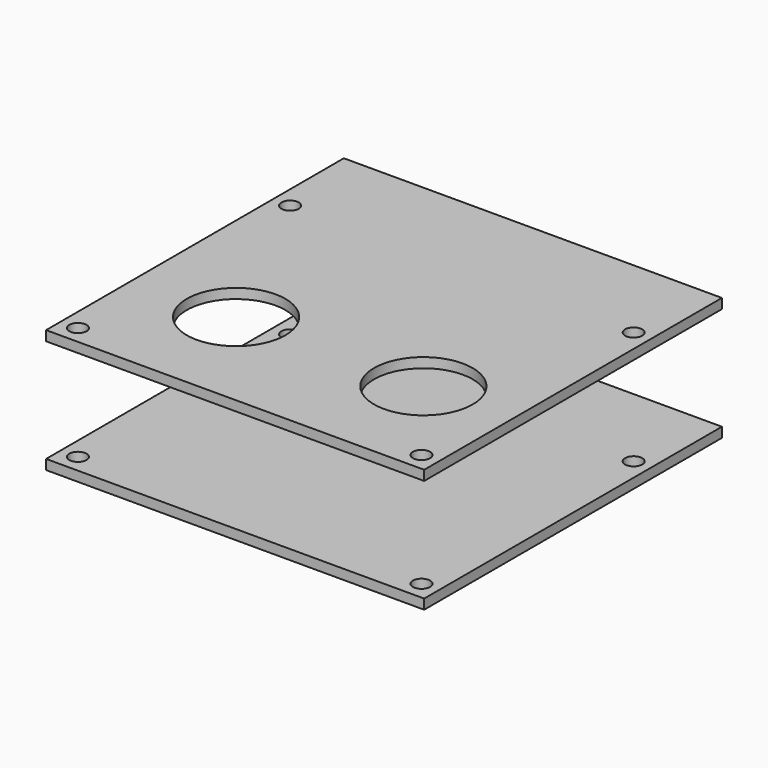
from build123d import *

# Parameters (mm, degrees)
SKETCH004_W      = 76.7
SKETCH004_H      = 75.5
SKETCH004_R      = 1.75
EXTRUDE004_DEPTH = 2
SKETCH005_W      = 76.7
SKETCH005_H      = 75.5
SKETCH005_R      = 10
SKETCH005_R_2    = 1.75
EXTRUDE005_DEPTH = 2


with BuildPart() as bottom_plate:
    # Sketch004 → Extrude004 (new body)
    with BuildSketch(Plane.XY):
        with Locations((38.35, 37.75)):
            Rectangle(SKETCH004_W, SKETCH004_H)
        with Locations((3.5, 3.7)):
            Circle(SKETCH004_R, mode=Mode.SUBTRACT)
        with Locations((73.2, 3.7)):
            Circle(SKETCH004_R, mode=Mode.SUBTRACT)
        with Locations((3.5, 57.5)):
            Circle(SKETCH004_R, mode=Mode.SUBTRACT)
        with Locations((73.2, 57.5)):
            Circle(SKETCH004_R, mode=Mode.SUBTRACT)
    extrude(amount=EXTRUDE004_DEPTH)


with BuildPart() as bottom_plate_1:
    # Extrude004 placement: moved
    add(bottom_plate.part.moved(Location((0, 0, -1))))


with BuildPart() as top_plate:
    # Sketch005 → Extrude005 (new body)
    with BuildSketch(Plane.XY):
        with Locations((38.35, 37.75)):
            Rectangle(SKETCH005_W, SKETCH005_H)
        with Locations((58.7, 22.3)):
            Circle(SKETCH005_R, mode=Mode.SUBTRACT)
        with Locations((20.7, 22.3)):
            Circle(SKETCH005_R, mode=Mode.SUBTRACT)
        with Locations((3.5, 3.7)):
            Circle(SKETCH005_R_2, mode=Mode.SUBTRACT)
        with Locations((73.2, 3.7)):
            Circle(SKETCH005_R_2, mode=Mode.SUBTRACT)
        with Locations((3.5, 57.5)):
            Circle(SKETCH005_R_2, mode=Mode.SUBTRACT)
        with Locations((73.2, 57.5)):
            Circle(SKETCH005_R_2, mode=Mode.SUBTRACT)
    extrude(amount=EXTRUDE005_DEPTH)


with BuildPart() as top_plate_1:
    # Extrude005 placement: moved
    add(top_plate.part.moved(Location((0, 0, 22))))


solid = Compound([bottom_plate_1.part, top_plate_1.part])
